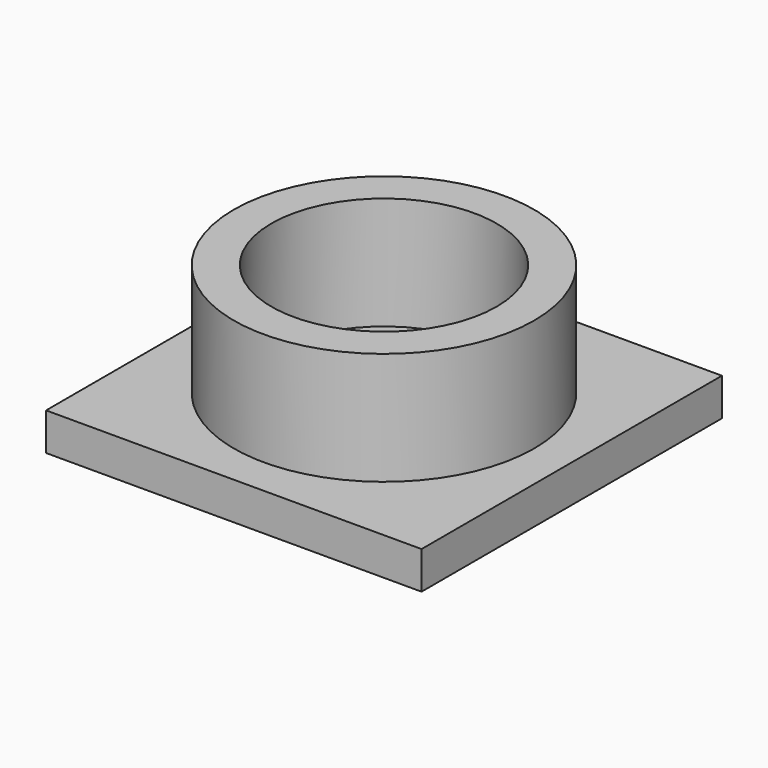
from build123d import *

# Parameters (mm, degrees)
F0_W     = 50
F0_H     = 50
F1_DEPTH = 5
F2_R     = 20
F2_R_2   = 15
F3_DEPTH = 15


with BuildPart() as f1:
    # F0 (on Top) → F1 (new body)
    with BuildSketch(Plane.XY):
        with Locations((-25, 25)):
            Rectangle(F0_W, F0_H)
    extrude(amount=F1_DEPTH)

    # F2 (on face) → F3 (join)
    with BuildSketch(Plane.XY.offset(5)):
        with Locations((-25, 25)):
            Circle(F2_R)
        with Locations((-25, 25)):
            Circle(F2_R_2, mode=Mode.SUBTRACT)
    extrude(amount=F3_DEPTH)


solid = f1.part
